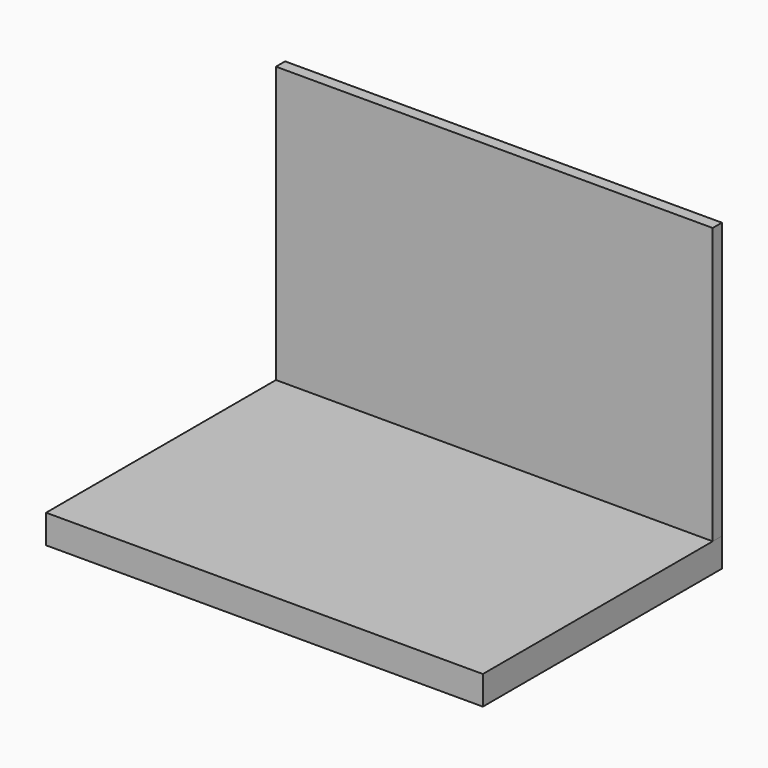
from build123d import *

# Parameters (mm, degrees)
BOX_W        = 38
BOX_H        = 26
BOX_DEPTH    = 2.5
BOX001_W     = 38
BOX001_H     = 1
BOX001_DEPTH = 24


with BuildPart() as base:
    # Box → Box (new body)
    with BuildSketch(Plane.XY):
        with Locations((19, 13)):
            Rectangle(BOX_W, BOX_H)
    extrude(amount=BOX_DEPTH)


with BuildPart() as pantalla:
    # Box001 → Box001 (new body)
    with BuildSketch(Plane(origin=(0, 25, 2.5), x_dir=(1, 0, 0), z_dir=(0, 0, 1))):
        with Locations((19, 0.5)):
            Rectangle(BOX001_W, BOX001_H)
    extrude(amount=BOX001_DEPTH)


solid = Compound([base.part, pantalla.part])
